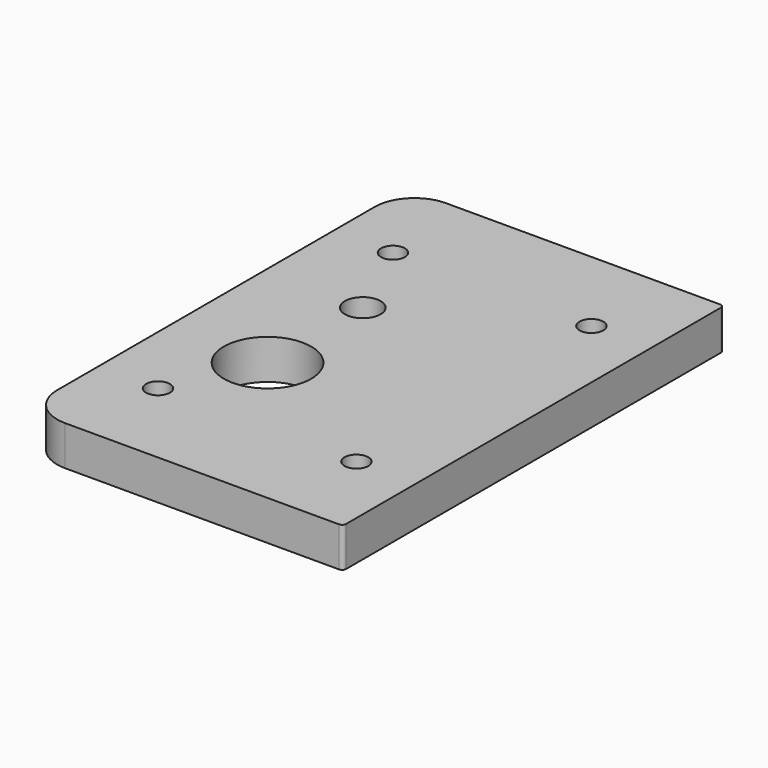
from build123d import *

# Parameters (mm, degrees)
SKETCH_W    = 80
SKETCH_H    = 120
SKETCH_R    = 4.5
SKETCH_R_2  = 11
SKETCH_R_3  = 3
PAD_DEPTH   = 10
FILLET_R    = 10
FILLET001_R = 1


with BuildPart() as part:
    # Sketch → Pad (new body)
    with BuildSketch(Plane.XY):
        with Locations((15, -15)):
            Rectangle(SKETCH_W, SKETCH_H)
        Circle(SKETCH_R, mode=Mode.SUBTRACT)
        with Locations((0, -30)):
            Circle(SKETCH_R_2, mode=Mode.SUBTRACT)
        with Locations((-10, -52)):
            Circle(SKETCH_R_3, mode=Mode.SUBTRACT)
        with Locations((40, -52)):
            Circle(SKETCH_R_3, mode=Mode.SUBTRACT)
        with Locations((40, 22)):
            Circle(SKETCH_R_3, mode=Mode.SUBTRACT)
        with Locations((-10, 22)):
            Circle(SKETCH_R_3, mode=Mode.SUBTRACT)
    extrude(amount=PAD_DEPTH)

    # Fillet
    fillet_edges = [part.edges().sort_by_distance(p)[0] for p in [
        (-25, -75, 5),
        (-25, 45, 5),
    ]]
    fillet(fillet_edges, radius=FILLET_R)

    # Fillet001
    fillet001_edges = [part.edges().sort_by_distance(p)[0] for p in [
        (55, -75, 5),
        (55, 45, 5),
    ]]
    fillet(fillet001_edges, radius=FILLET001_R)


solid = part.part
